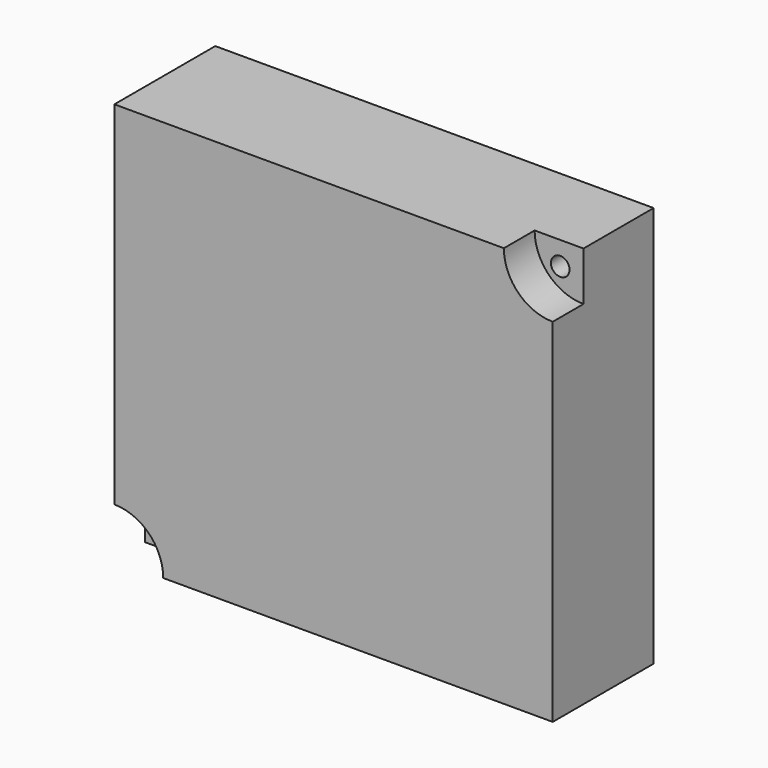
from build123d import *

# Parameters (mm, degrees)
CYLINDER003_W             = 5.25
CYLINDER003_H             = 4.13
CYLINDER003_ANGLE         = 90
CYLINDER002_R             = 1
CYLINDER002_DEPTH         = 13.55
FUSION002_PLACEMENT_ANGLE = 180
CYLINDER001_W             = 5.25
CYLINDER001_H             = 4.13
CYLINDER001_ANGLE         = 90
CYLINDER_R                = 1
CYLINDER_DEPTH            = 13.55
BOX_W                     = 47.1
BOX_H                     = 13.55
BOX_DEPTH                 = 43.1


with BuildPart() as obj1:
    # Cylinder003 → Cylinder003 (revolve)
    with BuildSketch(Plane(origin=(0, 4.13, 0), x_dir=(1, 0, 0), z_dir=(0, 0, -1))):
        with Locations((2.625, 2.065)):
            Rectangle(CYLINDER003_W, CYLINDER003_H)
    revolve(axis=Axis((0, 4.13, 0), (0, -1, 0)), revolution_arc=CYLINDER003_ANGLE)


with BuildPart() as obj2:
    # Cylinder002 → Cylinder002 (new body)
    with BuildSketch(Plane(origin=(2.5, 13.55, 2.5), x_dir=(1, 0, 0), z_dir=(0, -1, 0))):
        Circle(CYLINDER002_R)
    extrude(amount=CYLINDER002_DEPTH)

    # Fusion002: union obj1
    add(obj1.part)


with BuildPart() as obj2_1:
    # Fusion002 placement: moved
    add(obj2.part.moved(Location((47.1, 0, 43.1))).rotate(Axis((47.1, 0, 43.1), (0, 1, 0)), FUSION002_PLACEMENT_ANGLE))


with BuildPart() as obj3:
    # Cylinder001 → Cylinder001 (revolve)
    with BuildSketch(Plane(origin=(0, 4.13, 0), x_dir=(1, 0, 0), z_dir=(0, 0, -1))):
        with Locations((2.625, 2.065)):
            Rectangle(CYLINDER001_W, CYLINDER001_H)
    revolve(axis=Axis((0, 4.13, 0), (0, -1, 0)), revolution_arc=CYLINDER001_ANGLE)


with BuildPart() as fusion003:
    # Cylinder → Cylinder (new body)
    with BuildSketch(Plane(origin=(2.5, 13.55, 2.5), x_dir=(1, 0, 0), z_dir=(0, -1, 0))):
        Circle(CYLINDER_R)
    extrude(amount=CYLINDER_DEPTH)

    # Fusion001: union obj3
    add(obj3.part)

    # Fusion003: union obj2
    add(obj2_1.part)


with BuildPart() as ips7100v:
    # Box → Box (new body)
    with BuildSketch(Plane.XY):
        with Locations((23.55, 6.775)):
            Rectangle(BOX_W, BOX_H)
    extrude(amount=BOX_DEPTH)

    # Cut: cut Fusion003
    add(fusion003.part, mode=Mode.SUBTRACT)


with BuildPart() as ips7100v_1:
    # Cut placement: moved
    add(ips7100v.part.moved(Location((15, -33, 7.55))))


solid = ips7100v_1.part
